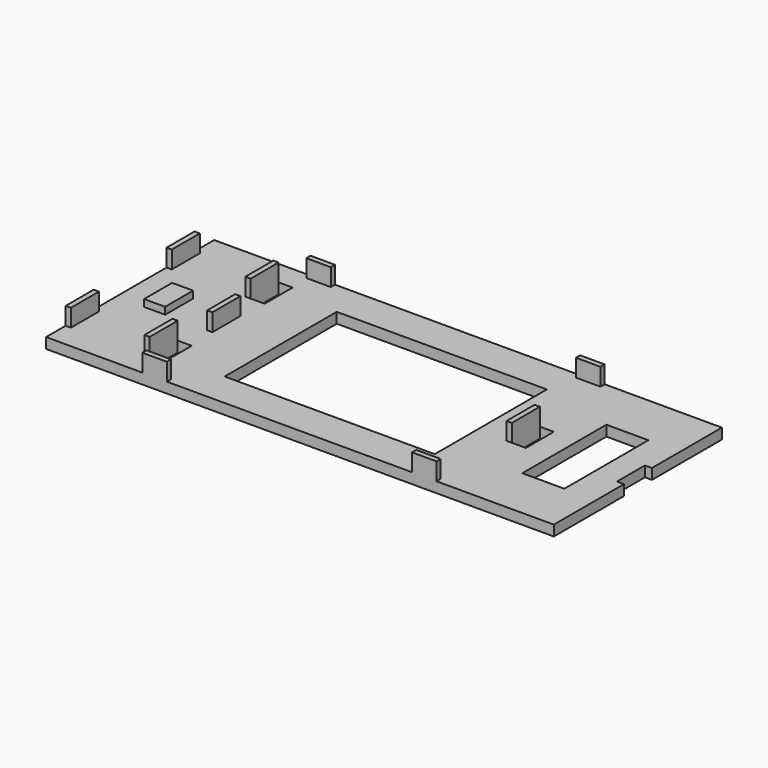
from build123d import *

# Parameters (mm, degrees)
F0_W     = 4
F0_H     = 10
F0_W_2   = 60
F0_H_2   = 40
F0_W_3   = 12
F0_H_3   = 30
F1_DEPTH = 3
F2_W     = 1.5
F2_H     = 10
F2_W_2   = 7
F2_H_2   = 1.5
F3_DEPTH = 5
F4_W     = 6
F4_H     = 10
F5_DEPTH = 2


with BuildPart() as f1:
    # F0 (on Top) → F1 (new body)
    with BuildSketch(Plane.XY):
        Polygon((54.352519, 30), (-90.647481, 30), (-90.647481, -30), (54.352519, -30), (54.352519, -5), (52.352519, -5), (52.352519, 5), (54.352519, 5), align=None)
        with Locations((-64.647481, -18)):
            Rectangle(F0_W, F0_H, mode=Mode.SUBTRACT)
        with Locations((-64.647481, 18)):
            Rectangle(F0_W, F0_H, mode=Mode.SUBTRACT)
        with Locations((-17.647481, 0)):
            Rectangle(F0_W_2, F0_H_2, mode=Mode.SUBTRACT)
        with Locations((24.352519, 0)):
            Rectangle(F0_W, F0_H, mode=Mode.SUBTRACT)
        with Locations((39.352519, 0)):
            Rectangle(F0_W_3, F0_H_3, mode=Mode.SUBTRACT)
    extrude(amount=F1_DEPTH)

    # F2 (on face) → F3 (join)
    with BuildSketch(Plane.XY.offset(3)):
        with Locations((-67.397481, -18)):
            Rectangle(F2_W, F2_H)
        with Locations((-89.897481, -18)):
            Rectangle(F2_W, F2_H)
        with Locations((-67.397481, 18)):
            Rectangle(F2_W, F2_H)
        with Locations((-89.897481, 18)):
            Rectangle(F2_W, F2_H)
        with Locations((-59.647481, -29.25)):
            Rectangle(F2_W_2, F2_H_2)
        with Locations((17.352519, -29.25)):
            Rectangle(F2_W_2, F2_H_2)
        with Locations((-59.647481, 29.25)):
            Rectangle(F2_W_2, F2_H_2)
        with Locations((17.352519, 29.25)):
            Rectangle(F2_W_2, F2_H_2)
        with Locations((21.602519, 0)):
            Rectangle(F2_W, F2_H)
        with Locations((-63.897481, 0)):
            Rectangle(F2_W, F2_H)
    extrude(amount=F3_DEPTH)

    # F4 (on face) → F5 (join)
    with BuildSketch(Plane.XY.offset(3)):
        with Locations((-79.647481, 0)):
            Rectangle(F4_W, F4_H)
    extrude(amount=F5_DEPTH)


solid = f1.part
